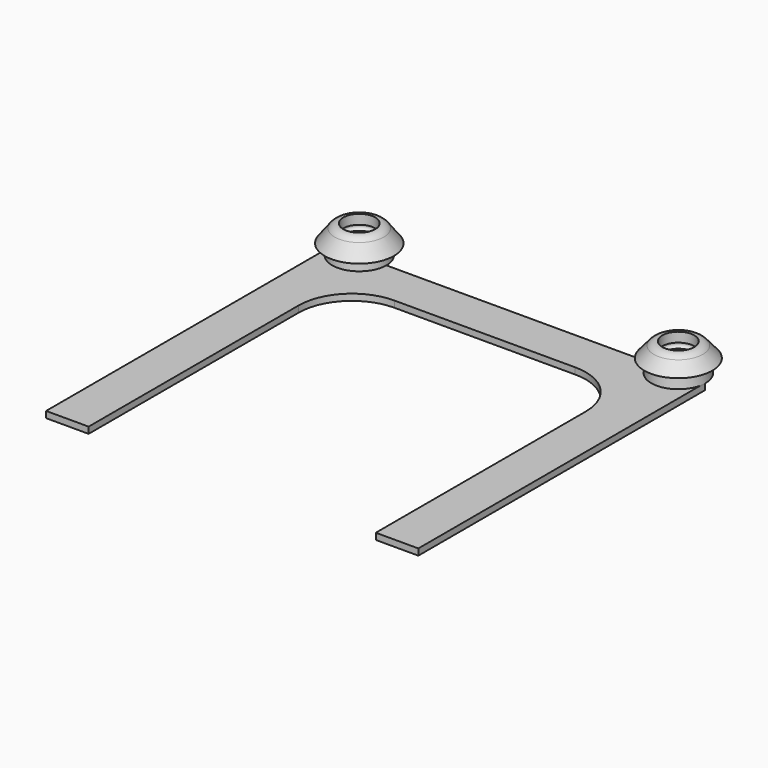
from build123d import *

# Parameters (mm, degrees)
F5_DEPTH = 1.2
F6_R     = 2
F7_R     = 2
F8_R     = 10


with BuildPart() as f1:
    # F0 (on Front) → F1 (revolve)
    with BuildSketch(Plane.XZ):
        with BuildLine():
            Line((-3, 4.7), (-3, 6.5))
            Line((-3, 6.5), (-4, 6.5))
            Line((-4, 6.5), (-6.5, 3.2))
            Line((-6.5, 3.2), (-4.9, 3.4))
            Line((-4.9, 3.4), (-5.1, 1.2))
            Line((-5.1, 1.2), (-3, 1.2))
            Line((-3, 1.2), (-3, 3.7))
            ThreePointArc((-3, 3.7), (-3.5, 4.2), (-3, 4.7))
        make_face()
    revolve(axis=Axis((0, 0, 2.8096139431), (0, 0, 1)))



with BuildPart() as f3:
    # F2 (on Front) → F3 (revolve)
    with BuildSketch(Plane.XZ):
        with BuildLine():
            Line((54.9, 1.2), (57, 1.2))
            Line((57, 1.2), (57, 3.7))
            ThreePointArc((57, 3.7), (56.5, 4.2), (57, 4.7))
            Line((57, 4.7), (57, 6.5))
            Line((57, 6.5), (56, 6.5))
            Line((56, 6.5), (53.6, 3.7))
            Line((53.6, 3.7), (55.1, 3.2))
            Line((55.1, 3.2), (54.9, 1.2))
        make_face()
    revolve(axis=Axis((60, 0, -5.4624276236), (0, 0, -1)))


with BuildPart() as f1_1:
    add(f1.part)

    add(f3.part)  # F5 merges F3
    # F4 (on Top) → F5 (join)
    with BuildSketch(Plane.XY):
        with BuildLine():
            Line((-5, 0), (-5, -8))
            Line((-5, -8), (-5, -67.365))
            Line((-5, -67.365), (3, -67.365))
            Line((3, -67.365), (3, -8))
            Line((3, -8), (57, -8))
            Line((57, -8), (57, -67.365))
            Line((57, -67.365), (65, -67.365))
            Line((65, -67.365), (65, -8))
            Line((65, -8), (65, 0))
            Line((65, 0), (63, 0))
            ThreePointArc((63, 0), (62.1213203436, -2.1213203436), (60, -3))
            ThreePointArc((60, -3), (57.8786796564, -2.1213203436), (57, 0))
            Line((57, 0), (3, 0))
            ThreePointArc((3, 0), (2.1213203436, -2.1213203436), (0, -3))
            ThreePointArc((0, -3), (-2.1213203436, -2.1213203436), (-3, 0))
            Line((-3, 0), (-5, 0))
        make_face()
    extrude(amount=F5_DEPTH)

    # F6
    f6_edges = [f1_1.edges().sort_by_distance(p)[0] for p in [
        (64, 0, 6.5),
    ]]
    fillet(f6_edges, radius=F6_R)

    # F7
    f7_edges = [f1_1.edges().sort_by_distance(p)[0] for p in [
        (4, 0, 6.5),
    ]]
    fillet(f7_edges, radius=F7_R)

    # F8
    f8_edges = [f1_1.edges().sort_by_distance(p)[0] for p in [
        (3, -8, 0.6),
        (57, -8, 0.6),
    ]]
    fillet(f8_edges, radius=F8_R)


solid = f1_1.part
